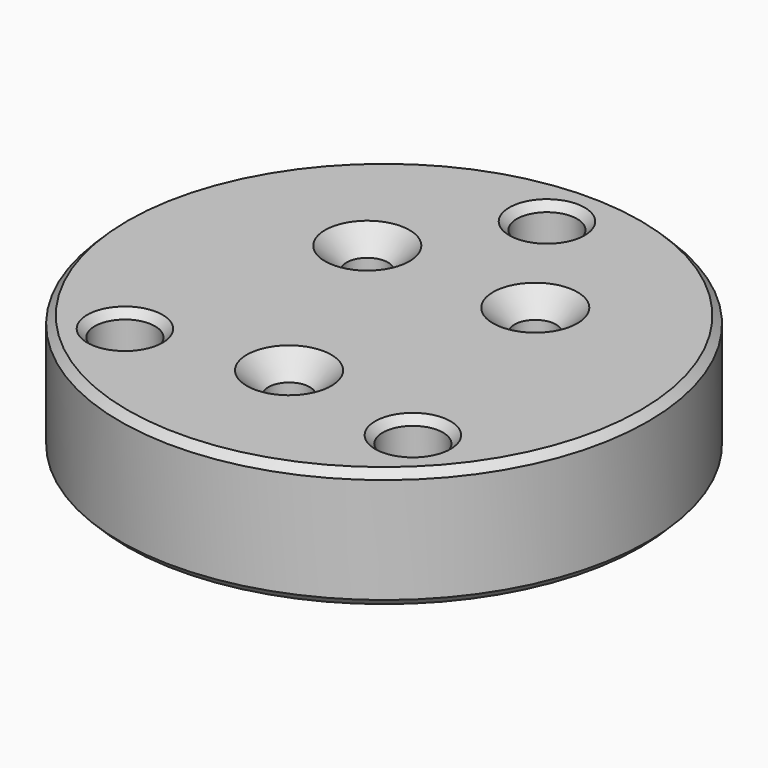
from build123d import *

# Parameters (mm, degrees)
F0_R           = 35
F1_DEPTH       = 16
F2_R           = 20.5
F3_DEPTH       = 2.5
F4_R           = 4
F5_DEPTH       = 8
F6_D           = 5.5
F6_CSINK_D     = 11.2
F6_CSINK_ANGLE = 90
F7_R           = 2.5
F8_DEPTH       = 5
F9_SIZE        = 1


with BuildPart() as f1:
    # F0 (on Top) → F1 (new body)
    with BuildSketch(Plane.XY):
        Circle(F0_R)
    extrude(amount=F1_DEPTH)

    # F2 (on face) → F3 (cut)
    with BuildSketch(Plane(origin=(0, 0, 0), x_dir=(1, 0, 0), z_dir=(0, 0, -1))):
        Circle(F2_R)
    extrude(amount=-F3_DEPTH, mode=Mode.SUBTRACT)

    # F4 (on face) → F5 (cut)
    with BuildSketch(Plane.XY.offset(16)):
        with Locations((0, 27)):
            Circle(F4_R)
        with Locations((19.091883092, -19.091883092)):
            Circle(F4_R)
        with Locations((-19.091883092, -19.091883092)):
            Circle(F4_R)
    extrude(amount=-F5_DEPTH, mode=Mode.SUBTRACT)

    # F6 (through all)
    with Locations(Plane.XY.offset(16)):
        with Locations((-11.1369318037, 11.1369318037), (11.1369318037, 11.1369318037), (0, -15.75)):
            CounterSinkHole(F6_D / 2, F6_CSINK_D / 2, counter_sink_angle=F6_CSINK_ANGLE)

    # F7 (on face) → F8 (cut)
    with BuildSketch(Plane(origin=(0, 0, 2.5), x_dir=(1, 0, 0), z_dir=(0, 0, -1))):
        with Locations((0, -15.75)):
            Circle(F7_R)
    extrude(amount=-F8_DEPTH, mode=Mode.SUBTRACT)

    # F9
    f9_edges = [f1.edges().sort_by_distance(p)[0] for p in [
        (-20.5, 0, 0),
        (-35, 0, 0),
        (-35, 0, 16),
        (-23.091883, -19.091883, 16),
        (-4, 27, 16),
        (15.091883, -19.091883, 16),
    ]]
    chamfer(f9_edges, length=F9_SIZE)


solid = f1.part
